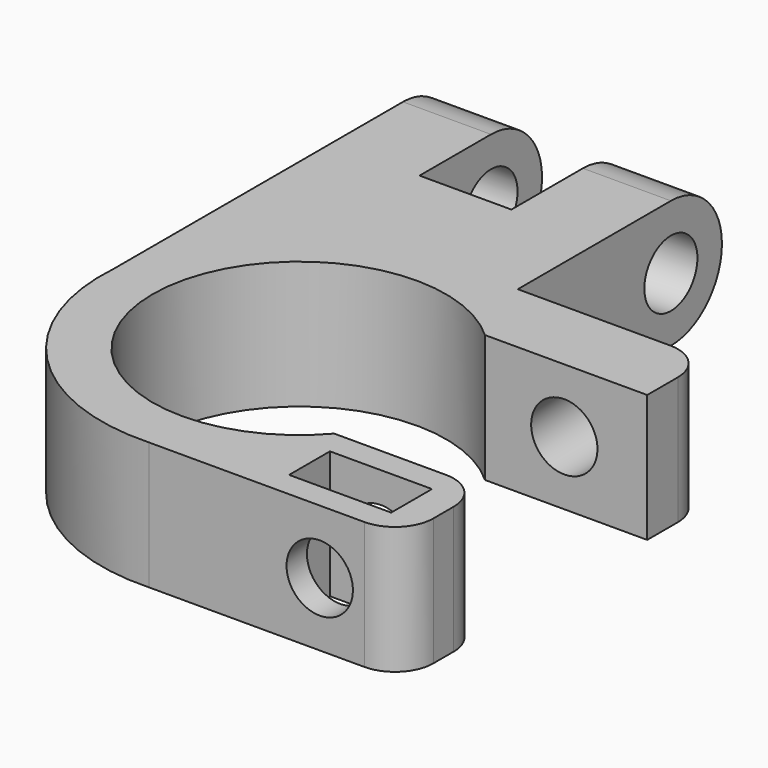
from build123d import *

# Parameters (mm, degrees)
F0_W     = 8
F0_H     = 4
F1_DEPTH = 10
F2_R     = 2.6
F3_DEPTH = 21
F4_R     = 2.6
F5_DEPTH = 50
F6_R     = 3


with BuildPart() as f1:
    # F0 (on Top) → F1 (new body)
    with BuildSketch(Plane.XY):
        with BuildLine():
            Line((20.489401, 8.474669), (20.489401, 14.474669))
            Line((20.489401, 14.474669), (5.543822, 14.474669))
            Line((5.543822, 14.474669), (5.543822, 34.474669))
            Line((5.543822, 34.474669), (-1.356178, 34.474669))
            Line((-1.356178, 34.474669), (-1.356178, 22.474669))
            Line((-1.356178, 22.474669), (-8.556178, 22.474669))
            Line((-8.556178, 22.474669), (-8.556178, 34.474669))
            Line((-8.556178, 34.474669), (-15.456178, 34.474669))
            Line((-15.456178, 34.474669), (-15.456178, 1.16472))
            ThreePointArc((-15.456178, 1.16472), (-11.149904, -10.767062), (0.624203, -15.487426))
            Line((0.624203, -15.487426), (11.585323, -15.487426))
            Line((11.585323, -15.487426), (20.489401, -15.487426))
            Line((20.489401, -15.487426), (20.489401, -7.487426))
            Line((20.489401, -7.487426), (8.728599, -7.487426))
            ThreePointArc((8.728599, -7.487426), (-11.479476, -0.686755), (7.773673, 8.474669))
            Line((7.773673, 8.474669), (20.489401, 8.474669))
        make_face()
        with Locations((13.989401, -11.487426)):
            Rectangle(F0_W, F0_H, mode=Mode.SUBTRACT)
    extrude(amount=F1_DEPTH)

    # F2 (on face) → F3 (cut, through all)
    with BuildSketch(Plane.YZ.offset(5.543822)):
        with BuildLine():
            ThreePointArc((34.474669, 5), (33.010203, 1.464466), (29.474669, 0))
            Line((29.474669, 0), (34.474669, 0))
            Line((34.474669, 0), (34.474669, 5))
        make_face()
        with BuildLine():
            ThreePointArc((29.474669, 10), (33.010203, 8.535534), (34.474669, 5))
            Line((34.474669, 5), (34.474669, 10))
            Line((34.474669, 10), (29.474669, 10))
        make_face()
        with Locations((29.474669, 5)):
            Circle(F2_R)
    extrude(amount=-F3_DEPTH, mode=Mode.SUBTRACT)

    # F4 (on face) → F5 (cut, symmetric)
    with BuildSketch(Plane(origin=(0, -13.487426, 0), x_dir=(-1, 0, 0), z_dir=(0, 1, 0))):
        with Locations((-13.989401, 5)):
            Circle(F4_R)
    extrude(amount=F5_DEPTH, both=True, mode=Mode.SUBTRACT)

    # F6
    f6_edges = [f1.edges().sort_by_distance(p)[0] for p in [
        (20.489401, 14.474669, 5),
        (20.489401, -7.487426, 5),
        (20.489401, -15.487426, 5),
    ]]
    fillet(f6_edges, radius=F6_R)


solid = f1.part
